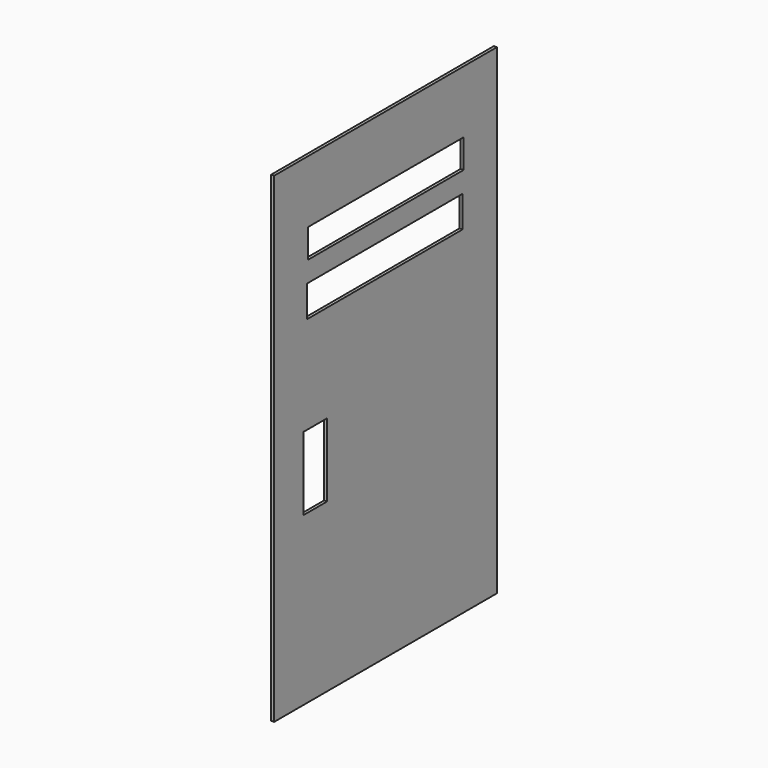
from build123d import *

# Parameters (mm, degrees)
F0_W     = 279.4
F0_H     = 482.6
F0_W_2   = 29.839933
F0_H_2   = 73.547341
F0_W_3   = 194.904692
F0_H_3   = 31.507507
F0_W_4   = 194.90467
F0_H_4   = 28.925971
F1_DEPTH = 3


with BuildPart() as f1:
    # F0 (on Right) → F1 (new body)
    with BuildSketch(Plane.YZ):
        Rectangle(F0_W, F0_H)
        with Locations((-88.098898, -36.773671)):
            Rectangle(F0_W_2, F0_H_2, mode=Mode.SUBTRACT)
        with Locations((-0.815321, 113.506011)):
            Rectangle(F0_W_3, F0_H_3, mode=Mode.SUBTRACT)
        with Locations((0.475429, 164.218239)):
            Rectangle(F0_W_4, F0_H_4, mode=Mode.SUBTRACT)
    extrude(amount=F1_DEPTH)


solid = f1.part
